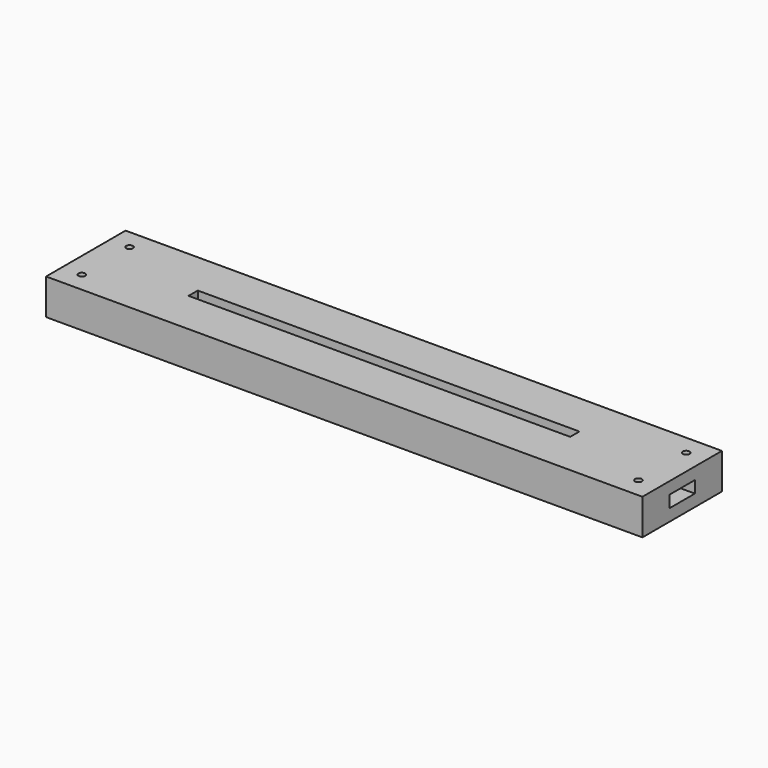
from build123d import *

# Parameters (mm, degrees)
SKETCH_W              = 150
SKETCH_H              = 25
PAD_DEPTH             = 3
PAD001_DEPTH          = 3
SKETCH004_W           = 150
SKETCH004_H           = 25
SKETCH004_W_2         = 96
SKETCH004_H_2         = 2.9
PAD002_DEPTH          = 3
SKETCH005_R           = 0.85
POCKET_DEPTH          = 313.671314
POLARPATTERN_COUNT    = 2
POLARPATTERN001_COUNT = 2
POLARPATTERN002_COUNT = 2


with BuildPart() as part:
    # Sketch → Pad (new body)
    with BuildSketch(Plane.XY):
        Rectangle(SKETCH_W, SKETCH_H)
    extrude(amount=PAD_DEPTH)

    # Sketch001 (on Face6 of Pad) → Pad001 (join)
    with BuildSketch(Plane.XY.offset(3)):
        Polygon((-75, 12.5), (75, 12.5), (75, 4), (50, 4), (50, 5), (-50, 5), (-50, 4), (-52.25, 4), (-52.25, 9.2), (-72.25, 9.2), (-72.25, 4.5), (-75, 4.5), align=None)
        Polygon((-75, -12.5), (75, -12.5), (75, -4), (50, -4), (50, -5), (-50, -5), (-50, -4), (-52.25, -4), (-52.25, -9.2), (-72.25, -9.2), (-72.25, -4.5), (-75, -4.5), align=None)
    extrude(amount=PAD001_DEPTH)

    # Sketch004 (on Face12 of Pad001) → Pad002 (join)
    with BuildSketch(Plane.XY.offset(6)):
        Rectangle(SKETCH004_W, SKETCH004_H)
        Rectangle(SKETCH004_W_2, SKETCH004_H_2, mode=Mode.SUBTRACT)
    extrude(amount=PAD002_DEPTH)

    # Sketch005 (on Face34 of Pad002) → Pocket (cut, through all)
    with BuildSketch(Plane.XY.offset(9)):
        with Locations((-70, 7.5)):
            Circle(SKETCH005_R)
    pocket = extrude(amount=-POCKET_DEPTH, mode=Mode.SUBTRACT)

    # PolarPattern: Pocket ×2 about axis
    polarpattern_axis = Axis((0, 0, 9), (0, 0, 1))
    for i in range(1, POLARPATTERN_COUNT):
        add(pocket.rotate(polarpattern_axis, i * 360 / POLARPATTERN_COUNT), mode=Mode.SUBTRACT)

    # PolarPattern001: Pocket ×2 about axis
    polarpattern001_axis = Axis((0, 0, 0), (0, 1, 0))
    for i in range(1, POLARPATTERN001_COUNT):
        add(pocket.rotate(polarpattern001_axis, i * 360 / POLARPATTERN001_COUNT), mode=Mode.SUBTRACT)

    # PolarPattern002: Pocket ×2 about axis
    polarpattern002_axis = Axis((0, 0, 0), (1, 0, 0))
    for i in range(1, POLARPATTERN002_COUNT):
        add(pocket.rotate(polarpattern002_axis, i * 360 / POLARPATTERN002_COUNT), mode=Mode.SUBTRACT)


solid = part.part
